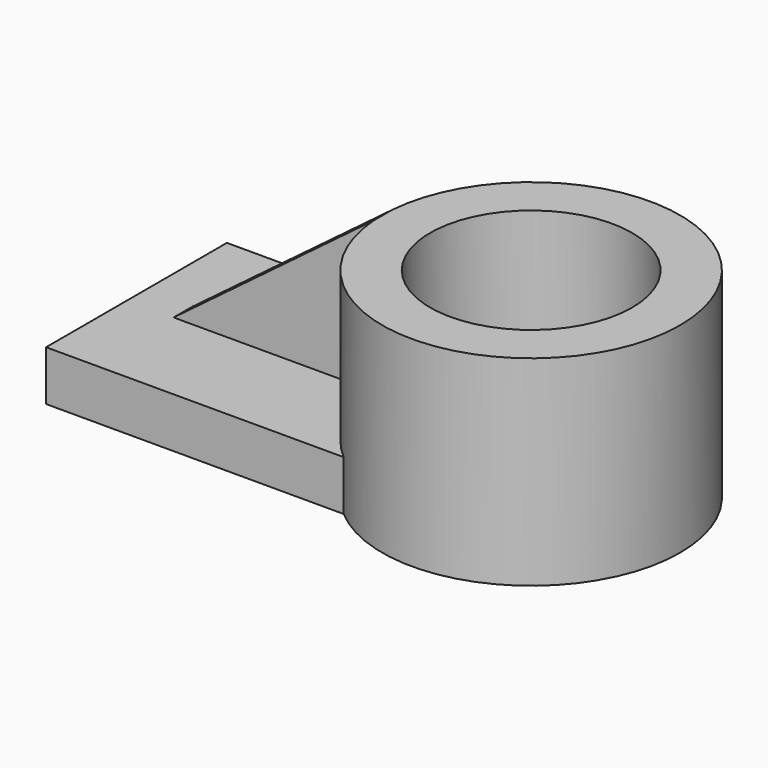
from build123d import *

# Parameters (mm, degrees)
F0_W      = 123.794436
F0_H      = 57.333368
F1_DEPTH  = 12.7
F2_R      = 37.794385
F3_DEPTH  = 50.8
F4_R      = 25.640341
F5_DEPTH  = 50.8
F6_W      = 100.285656
F6_H      = 5.836856
F7_DEPTH  = 38.1
F8_R      = 25.640341
F9_DEPTH  = 50.8
F11_DEPTH = 25.4


with BuildPart() as f1:
    # F0 (on Top) → F1 (new body)
    with BuildSketch(Plane.XY):
        Rectangle(F0_W, F0_H)
    extrude(amount=F1_DEPTH)

    # F2 (on Top) → F3 (join)
    with BuildSketch(Plane.XY):
        with Locations((38.222246, 0)):
            Circle(F2_R)
    extrude(amount=F3_DEPTH)

    # F4 (on face) → F5 (cut)
    with BuildSketch(Plane.XY.offset(50.8)):
        with Locations((38.222246, 0)):
            Circle(F4_R)
    extrude(amount=-F5_DEPTH, mode=Mode.SUBTRACT)

    # F6 (on face) → F7 (join)
    with BuildSketch(Plane.XY.offset(12.7)):
        Rectangle(F6_W, F6_H)
    extrude(amount=F7_DEPTH)

    # F8 (on face) → F9 (cut)
    with BuildSketch(Plane.XY.offset(50.8)):
        with Locations((38.222246, 0)):
            Circle(F8_R)
    extrude(amount=-F9_DEPTH, mode=Mode.SUBTRACT)

    # F10 (on face) → F11 (cut)
    with BuildSketch(Plane.XZ.offset(2.918428)):
        Polygon((-50.142828, 12.7), (0.540708, 50.8), (-50.142828, 50.8), align=None)
    extrude(amount=-F11_DEPTH, mode=Mode.SUBTRACT)


solid = f1.part
